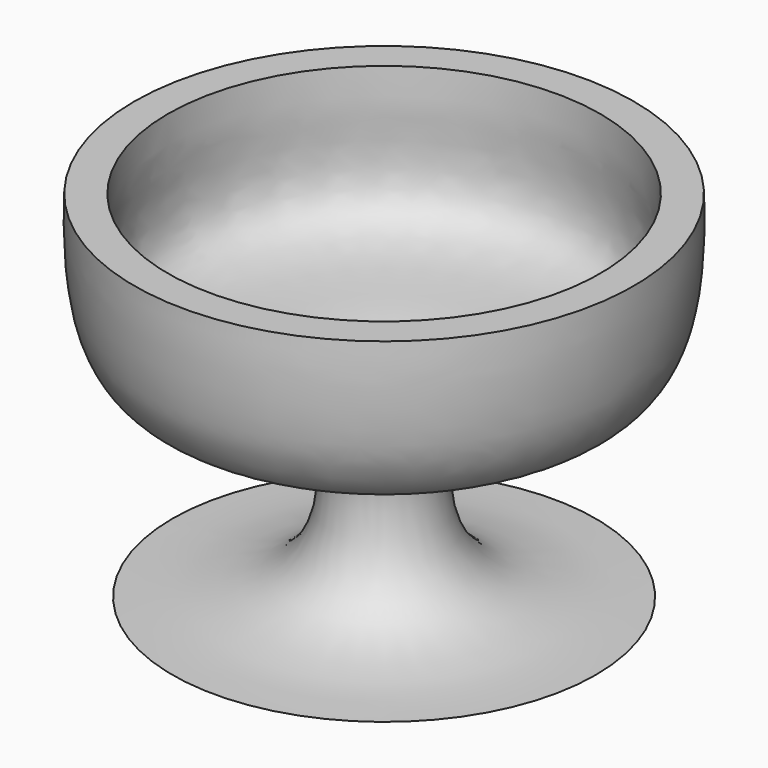
from build123d import *


with BuildPart() as f1:
    # F0 (on Front) → F1 (revolve)
    with BuildSketch(Plane.XZ):
        with BuildLine():
            Line((-32.3067057545, 0), (0, 0))
            Line((0, 0), (0, 21.5376280248))
            add(Edge.make_bspline(
                [(-32.9938158393, 54.1648492217), (-32.9058140445, 52.177930699), (-32.7015050404, 47.565009502), (-34.7880656141, 32.0876368832), (-13.5065474414, 31.9897532887), (-2.3236630331, 28.2904742053), (-4.2170272655, 20.9857596595), (-1.3016800865, 21.3672814711), (0, 21.5376280248)],
                knots=[0, 0, 0, 0, 0.1483138188, 0.344332166, 0.5895425797, 0.774064976, 0.89912175, 1, 1, 1, 1], degree=3))
            Line((-32.9938158393, 54.1648492217), (-38.1261855364, 54.1648492217))
            add(Edge.make_bspline(
                [(-32.3067057545, 0), (-23.6192804207, 0.0997662986), (-7.9766845214, 1.6241047561), (-7.0628749595, 22.7823298901), (-13.7409646722, 28.3632029302), (-36.5806763909, 26.4803385178), (-38.3413883803, 47.6246316227), (-38.1856227923, 52.3584949003), (-38.1261855364, 54.1648492217)],
                knots=[0.0406923163, 0.0406923163, 0.0406923163, 0.0406923163, 0.2251038864, 0.4020312964, 0.5206811489, 0.7090224067, 0.8889683537, 1, 1, 1, 1], degree=3))
        make_face()
    revolve(axis=Axis((0, 0, 10.7688140124), (0, 0, -1)))


solid = f1.part
